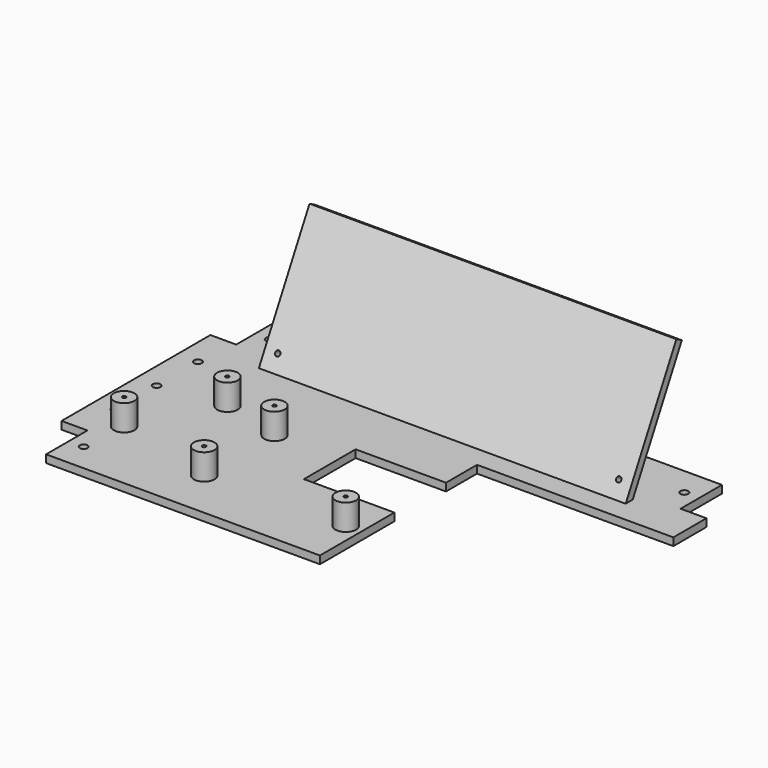
from build123d import *

# Parameters (mm, degrees)
BOX006_W                  = 35
BOX006_H                  = 25
BOX006_DEPTH              = 10
CYLINDER010_R             = 0.7
CYLINDER010_DEPTH         = 10
CYLINDER011_R             = 4
CYLINDER011_DEPTH         = 10
CYLINDER012_R             = 0.7
CYLINDER012_DEPTH         = 10
CYLINDER013_R             = 4
CYLINDER013_DEPTH         = 10
CYLINDER009_R             = 0.7
CYLINDER009_DEPTH         = 10
CYLINDER008_R             = 4
CYLINDER008_DEPTH         = 10
CYLINDER016_R             = 0.7
CYLINDER016_DEPTH         = 10
CYLINDER017_R             = 4
CYLINDER017_DEPTH         = 10
CYLINDER018_R             = 0.7
CYLINDER018_DEPTH         = 10
CYLINDER019_R             = 4
CYLINDER019_DEPTH         = 10
FUSION003_PLACEMENT_ANGLE = 90
CYLINDER006_R             = 1
CYLINDER006_DEPTH         = 10
CYLINDER007_R             = 1
CYLINDER007_DEPTH         = 10
BOX005_W                  = 142
BOX005_H                  = 54
BOX005_DEPTH              = 3
CUT010_PLACEMENT_ANGLE    = 62
CYLINDER_R                = 1.5
CYLINDER_DEPTH            = 10
CYLINDER001_R             = 1.5
CYLINDER001_DEPTH         = 10
CYLINDER002_R             = 1.5
CYLINDER002_DEPTH         = 10
CYLINDER003_R             = 1.5
CYLINDER003_DEPTH         = 10
CYLINDER004_R             = 1.5
CYLINDER004_DEPTH         = 10
CYLINDER005_R             = 1.5
CYLINDER005_DEPTH         = 10
BOX004_W                  = 76
BOX004_H                  = 76
BOX004_DEPTH              = 10
BOX002_W                  = 192
BOX002_H                  = 72
BOX002_DEPTH              = 3
BOX003_W                  = 172
BOX003_H                  = 112
BOX003_DEPTH              = 3
BOX001_W                  = 192
BOX001_H                  = 112
BOX001_DEPTH              = 3
BOX_W                     = 192
BOX_H                     = 112
BOX_DEPTH                 = 3


with BuildPart() as cube006:
    # Box006 → Box006 (new body)
    with BuildSketch(Plane(origin=(81, 36, 0), x_dir=(1, 0, 0), z_dir=(0, 0, 1))):
        with Locations((17.5, 12.5)):
            Rectangle(BOX006_W, BOX006_H)
    extrude(amount=BOX006_DEPTH)


with BuildPart() as cylinder010:
    # Cylinder010 → Cylinder010 (new body)
    with BuildSketch(Plane.XY.offset(3)):
        Circle(CYLINDER010_R)
    extrude(amount=CYLINDER010_DEPTH)


with BuildPart() as cut012:
    # Cylinder011 → Cylinder011 (new body)
    with BuildSketch(Plane.XY.offset(3)):
        Circle(CYLINDER011_R)
    extrude(amount=CYLINDER011_DEPTH)

    # Cut012: cut Cylinder010
    add(cylinder010.part, mode=Mode.SUBTRACT)


with BuildPart() as cut012_1:
    # Cut012 placement: moved
    add(cut012.part.moved(Location((0, 34, 0))))


with BuildPart() as cylinder012:
    # Cylinder012 → Cylinder012 (new body)
    with BuildSketch(Plane.XY.offset(3)):
        Circle(CYLINDER012_R)
    extrude(amount=CYLINDER012_DEPTH)


with BuildPart() as cut013:
    # Cylinder013 → Cylinder013 (new body)
    with BuildSketch(Plane.XY.offset(3)):
        Circle(CYLINDER013_R)
    extrude(amount=CYLINDER013_DEPTH)

    # Cut013: cut Cylinder012
    add(cylinder012.part, mode=Mode.SUBTRACT)


with BuildPart() as cut013_1:
    # Cut013 placement: moved
    add(cut013.part.moved(Location((54, 1, 0))))


with BuildPart() as cylinder009:
    # Cylinder009 → Cylinder009 (new body)
    with BuildSketch(Plane.XY.offset(3)):
        Circle(CYLINDER009_R)
    extrude(amount=CYLINDER009_DEPTH)


with BuildPart() as fusion002:
    # Cylinder008 → Cylinder008 (new body)
    with BuildSketch(Plane.XY.offset(3)):
        Circle(CYLINDER008_R)
    extrude(amount=CYLINDER008_DEPTH)

    # Cut011: cut Cylinder009
    add(cylinder009.part, mode=Mode.SUBTRACT)

    # Fusion002: union Cut012, Cut013
    add(cut012_1.part)
    add(cut013_1.part)


with BuildPart() as fusion002_1:
    # Fusion002 placement: moved
    add(fusion002.part.moved(Location((56, 19, 0))))


with BuildPart() as cylinder016:
    # Cylinder016 → Cylinder016 (new body)
    with BuildSketch(Plane.XY.offset(3)):
        Circle(CYLINDER016_R)
    extrude(amount=CYLINDER016_DEPTH)


with BuildPart() as cut015:
    # Cylinder017 → Cylinder017 (new body)
    with BuildSketch(Plane.XY.offset(3)):
        Circle(CYLINDER017_R)
    extrude(amount=CYLINDER017_DEPTH)

    # Cut015: cut Cylinder016
    add(cylinder016.part, mode=Mode.SUBTRACT)


with BuildPart() as cut015_1:
    # Cut015 placement: moved
    add(cut015.part.moved(Location((0, 16, 0))))


with BuildPart() as cylinder018:
    # Cylinder018 → Cylinder018 (new body)
    with BuildSketch(Plane.XY.offset(3)):
        Circle(CYLINDER018_R)
    extrude(amount=CYLINDER018_DEPTH)


with BuildPart() as fusion003:
    # Cylinder019 → Cylinder019 (new body)
    with BuildSketch(Plane.XY.offset(3)):
        Circle(CYLINDER019_R)
    extrude(amount=CYLINDER019_DEPTH)

    # Cut016: cut Cylinder018
    add(cylinder018.part, mode=Mode.SUBTRACT)


with BuildPart() as fusion003_1:
    # Cut016 placement: moved
    add(fusion003.part.moved(Location((30, 0, 0))))

    # Fusion003: union Cut015
    add(cut015_1.part)


with BuildPart() as fusion003_2:
    # Fusion003 placement: moved
    add(fusion003_1.part.moved(Location((33, 29, 0))).rotate(Axis((33, 29, 0), (0, 0, 1)), FUSION003_PLACEMENT_ANGLE))


with BuildPart() as cylinder006:
    # Cylinder006 → Cylinder006 (new body)
    with BuildSketch(Plane(origin=(5, 8, 0), x_dir=(1, 0, 0), z_dir=(0, 0, 1))):
        Circle(CYLINDER006_R)
    extrude(amount=CYLINDER006_DEPTH)


with BuildPart() as cylinder007:
    # Cylinder007 → Cylinder007 (new body)
    with BuildSketch(Plane(origin=(137, 8, 0), x_dir=(1, 0, 0), z_dir=(0, 0, 1))):
        Circle(CYLINDER007_R)
    extrude(amount=CYLINDER007_DEPTH)


with BuildPart() as cut010:
    # Box005 → Box005 (new body)
    with BuildSketch(Plane.XY):
        with Locations((71, 27)):
            Rectangle(BOX005_W, BOX005_H)
    extrude(amount=BOX005_DEPTH)

    # Cut009: cut Cylinder007
    add(cylinder007.part, mode=Mode.SUBTRACT)

    # Cut010: cut Cylinder006
    add(cylinder006.part, mode=Mode.SUBTRACT)


with BuildPart() as cut010_1:
    # Cut010 placement: moved
    add(cut010.part.moved(Location((25, 86, 0))).rotate(Axis((25, 86, 0), (1, 0, 0)), CUT010_PLACEMENT_ANGLE))


with BuildPart() as cylinder:
    # Cylinder → Cylinder (new body)
    with BuildSketch(Plane(origin=(8, 56, 0), x_dir=(1, 0, 0), z_dir=(0, 0, 1))):
        Circle(CYLINDER_R)
    extrude(amount=CYLINDER_DEPTH)


with BuildPart() as cylinder001:
    # Cylinder001 → Cylinder001 (new body)
    with BuildSketch(Plane(origin=(8, 76, 0), x_dir=(1, 0, 0), z_dir=(0, 0, 1))):
        Circle(CYLINDER001_R)
    extrude(amount=CYLINDER001_DEPTH)


with BuildPart() as cylinder002:
    # Cylinder002 → Cylinder002 (new body)
    with BuildSketch(Plane(origin=(8, 36, 0), x_dir=(1, 0, 0), z_dir=(0, 0, 1))):
        Circle(CYLINDER002_R)
    extrude(amount=CYLINDER002_DEPTH)


with BuildPart() as cylinder003:
    # Cylinder003 → Cylinder003 (new body)
    with BuildSketch(Plane(origin=(15.75, 11, 0), x_dir=(1, 0, 0), z_dir=(0, 0, 1))):
        Circle(CYLINDER003_R)
    extrude(amount=CYLINDER003_DEPTH)


with BuildPart() as cylinder004:
    # Cylinder004 → Cylinder004 (new body)
    with BuildSketch(Plane(origin=(15.75, 101, 0), x_dir=(1, 0, 0), z_dir=(0, 0, 1))):
        Circle(CYLINDER004_R)
    extrude(amount=CYLINDER004_DEPTH)


with BuildPart() as cylinder005:
    # Cylinder005 → Cylinder005 (new body)
    with BuildSketch(Plane(origin=(176.25, 101, 0), x_dir=(1, 0, 0), z_dir=(0, 0, 1))):
        Circle(CYLINDER005_R)
    extrude(amount=CYLINDER005_DEPTH)


with BuildPart() as cube004:
    # Box004 → Box004 (new body)
    with BuildSketch(Plane(origin=(116, 0, 0), x_dir=(1, 0, 0), z_dir=(0, 0, 1))):
        with Locations((38, 38)):
            Rectangle(BOX004_W, BOX004_H)
    extrude(amount=BOX004_DEPTH)


with BuildPart() as cube002:
    # Box002 → Box002 (new body)
    with BuildSketch(Plane(origin=(0, 20, 0), x_dir=(1, 0, 0), z_dir=(0, 0, 1))):
        with Locations((96, 36)):
            Rectangle(BOX002_W, BOX002_H)
    extrude(amount=BOX002_DEPTH)


with BuildPart() as fusion:
    # Box003 → Box003 (new body)
    with BuildSketch(Plane(origin=(10, 0, 0), x_dir=(1, 0, 0), z_dir=(0, 0, 1))):
        with Locations((86, 56)):
            Rectangle(BOX003_W, BOX003_H)
    extrude(amount=BOX003_DEPTH)

    # Fusion: union Cube002
    add(cube002.part)


with BuildPart() as cut:
    # Box001 → Box001 (new body)
    with BuildSketch(Plane.XY):
        with Locations((96, 56)):
            Rectangle(BOX001_W, BOX001_H)
    extrude(amount=BOX001_DEPTH)

    # Cut: cut Fusion
    add(fusion.part, mode=Mode.SUBTRACT)


with BuildPart() as cut017:
    # Box → Box (new body)
    with BuildSketch(Plane.XY):
        with Locations((96, 56)):
            Rectangle(BOX_W, BOX_H)
    extrude(amount=BOX_DEPTH)

    # Cut001: cut Cut
    add(cut.part, mode=Mode.SUBTRACT)

    # Cut002: cut Cube004
    add(cube004.part, mode=Mode.SUBTRACT)

    # Cut003: cut Cylinder005
    add(cylinder005.part, mode=Mode.SUBTRACT)

    # Cut004: cut Cylinder004
    add(cylinder004.part, mode=Mode.SUBTRACT)

    # Cut005: cut Cylinder003
    add(cylinder003.part, mode=Mode.SUBTRACT)

    # Cut006: cut Cylinder002
    add(cylinder002.part, mode=Mode.SUBTRACT)

    # Cut007: cut Cylinder001
    add(cylinder001.part, mode=Mode.SUBTRACT)

    # Cut008: cut Cylinder
    add(cylinder.part, mode=Mode.SUBTRACT)

    # Fusion001: union Cut010
    add(cut010_1.part)

    # Fusion004: union Fusion002, Fusion003
    add(fusion002_1.part)
    add(fusion003_2.part)

    # Cut017: cut Cube006
    add(cube006.part, mode=Mode.SUBTRACT)


solid = cut017.part
